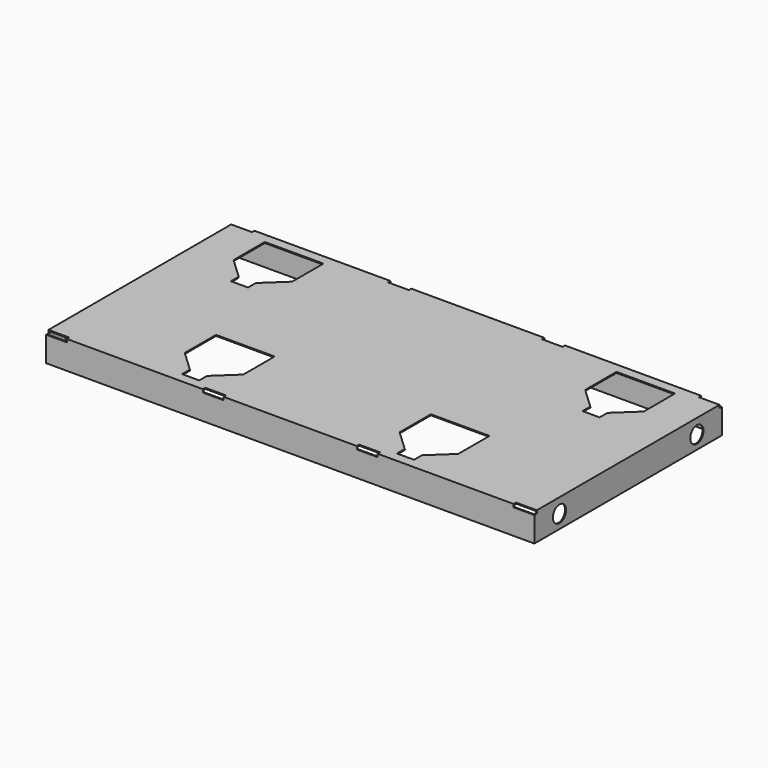
from build123d import *

# Parameters (mm, degrees)
F0_W     = 1270
F0_H     = 609.6
F1_DEPTH = 73.152
F2_T     = -2.667
F3_W     = 152.4
F3_H     = 101.6
F3_W_2   = 44.45
F3_H_2   = 25.4
F4_DEPTH = 73.153
F5_W     = 54.102
F5_H     = 7.874
F6_DEPTH = 7.874
F7_R     = 21.463
F8_DEPTH = 1270.001


with BuildPart() as f1:
    # F0 (on Top) → F1 (new body)
    with BuildSketch(Plane.XY):
        Rectangle(F0_W, F0_H)
    extrude(amount=F1_DEPTH)

    # F2
    f2_openings = [f1.faces().sort_by_distance(p)[0] for p in [
        (0, 0, 0),
    ]]
    offset(amount=F2_T, openings=f2_openings)

    # F3 (on face) → F4 (cut, through all)
    with BuildSketch(Plane.XY.offset(73.152)):
        with Locations((-457.2, 228.6)):
            Rectangle(F3_W, F3_H)
        Polygon((-434.975, 127), (-381, 177.8), (-533.4, 177.8), (-479.425, 127), align=None)
        with Locations((-457.2, 114.3)):
            Rectangle(F3_W_2, F3_H_2)
        with Locations((-279.4, -152.4)):
            Rectangle(F3_W, F3_H)
        Polygon((-355.6, -203.2), (-301.625, -254), (-257.175, -254), (-203.2, -203.2), align=None)
        with Locations((-279.4, -266.7)):
            Rectangle(F3_W_2, F3_H_2)
        with Locations((279.4, -266.7)):
            Rectangle(F3_W_2, F3_H_2)
        with Locations((279.4, -152.4)):
            Rectangle(F3_W, F3_H)
        with Locations((457.2, 114.3)):
            Rectangle(F3_W_2, F3_H_2)
        Polygon((381, 177.8), (434.975, 127), (479.425, 127), (533.4, 177.8), align=None)
        with Locations((457.2, 228.6)):
            Rectangle(F3_W, F3_H)
        Polygon((203.2, -203.2), (257.175, -254), (301.625, -254), (355.6, -203.2), align=None)
    extrude(amount=-F4_DEPTH, mode=Mode.SUBTRACT)

    # F5 (on face) → F6 (cut)
    with BuildSketch(Plane.XY.offset(73.152)):
        with Locations((-607.949, 300.863)):
            Rectangle(F5_W, F5_H)
        with Locations((-200.025, 300.863)):
            Rectangle(F5_W, F5_H)
        with Locations((200.025, 300.863)):
            Rectangle(F5_W, F5_H)
        with Locations((607.949, 300.863)):
            Rectangle(F5_W, F5_H)
        with Locations((607.949, -300.863)):
            Rectangle(F5_W, F5_H)
        with Locations((200.025, -300.863)):
            Rectangle(F5_W, F5_H)
        with Locations((-200.025, -300.863)):
            Rectangle(F5_W, F5_H)
        with Locations((-607.949, -300.863)):
            Rectangle(F5_W, F5_H)
    extrude(amount=-F6_DEPTH, mode=Mode.SUBTRACT)

    # F7 (on face) → F8 (cut, through all)
    with BuildSketch(Plane.YZ.offset(635)):
        with Locations((223.266, 35.052)):
            Circle(F7_R)
        with Locations((-223.266, 35.052)):
            Circle(F7_R)
    extrude(amount=-F8_DEPTH, mode=Mode.SUBTRACT)


solid = f1.part
